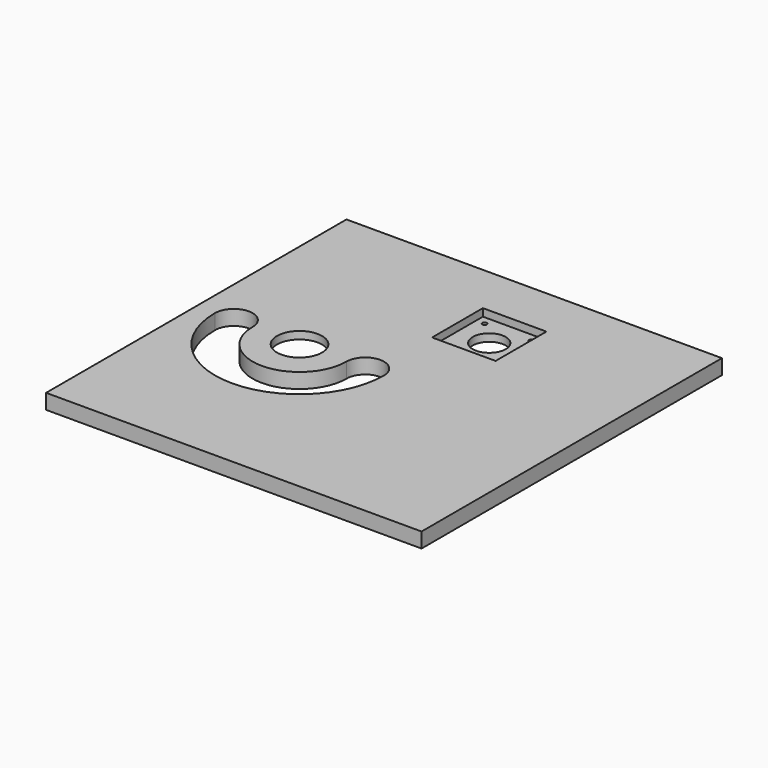
from build123d import *

# Parameters (mm, degrees)
F0_W     = 250
F0_H     = 250
F0_R     = 15
F0_R_2   = 1.5
F0_R_3   = 11
F1_DEPTH = 10
F3_W     = 42.3
F3_H     = 42.3
F4_DEPTH = 5
F5_DEPTH = 5


with BuildPart() as f1:
    # F0 (on Top) → F1 (new body)
    with BuildSketch(Plane.XY):
        Rectangle(F0_W, F0_H)
        with BuildLine():
            ThreePointArc((0, 0), (-56.25, -56.25), (-112.5, 0))
            ThreePointArc((-112.5, 0), (-100, 12.5), (-87.5, 0))
            ThreePointArc((-87.5, 0), (-56.25, -31.25), (-25, 0))
            ThreePointArc((-25, 0), (-12.5, 12.5), (0, 0))
        make_face(mode=Mode.SUBTRACT)
        with Locations((-56.25, 0)):
            Circle(F0_R, mode=Mode.SUBTRACT)
        with Locations((-1.5696519672, 54.6803480328)):
            Circle(F0_R_2, mode=Mode.SUBTRACT)
        with Locations((-1.5696519672, 85.6803480328)):
            Circle(F0_R_2, mode=Mode.SUBTRACT)
        with Locations((29.4303480328, 54.6803480328)):
            Circle(F0_R_2, mode=Mode.SUBTRACT)
        with Locations((13.9303480328, 70.1803480328)):
            Circle(F0_R_3, mode=Mode.SUBTRACT)
        with Locations((29.4303480328, 85.6803480328)):
            Circle(F0_R_2, mode=Mode.SUBTRACT)
    extrude(amount=F1_DEPTH)

    # F3 (on face) → F4 (cut)
    with BuildSketch(Plane.XY.offset(10)):
        with Locations((13.9303480328, 70.1803480328)):
            Rectangle(F3_W, F3_H)
    extrude(amount=-F4_DEPTH, mode=Mode.SUBTRACT)

    # F2 (on face) → F5 (cut)
    with BuildSketch(Plane(origin=(0, 0, 0), x_dir=(1, 0, 0), z_dir=(0, 0, -1))):
        with BuildLine():
            ThreePointArc((-30.25, 0), (-37.8652236891, 18.3847763109), (-56.25, 26))
            ThreePointArc((-56.25, 26), (-74.6347763109, -18.3847763109), (-30.25, 0))
        make_face()
        with BuildLine():
            ThreePointArc((-41.25, 0), (-66.8566017178, -10.6066017178), (-56.25, 15))
            ThreePointArc((-56.25, 15), (-45.6433982822, 10.6066017178), (-41.25, 0))
        make_face(mode=Mode.SUBTRACT)
    extrude(amount=-F5_DEPTH, mode=Mode.SUBTRACT)


with BuildPart() as f6_1:
    # F6: copy of F1
    add(f1.part)


solid = f1.part
